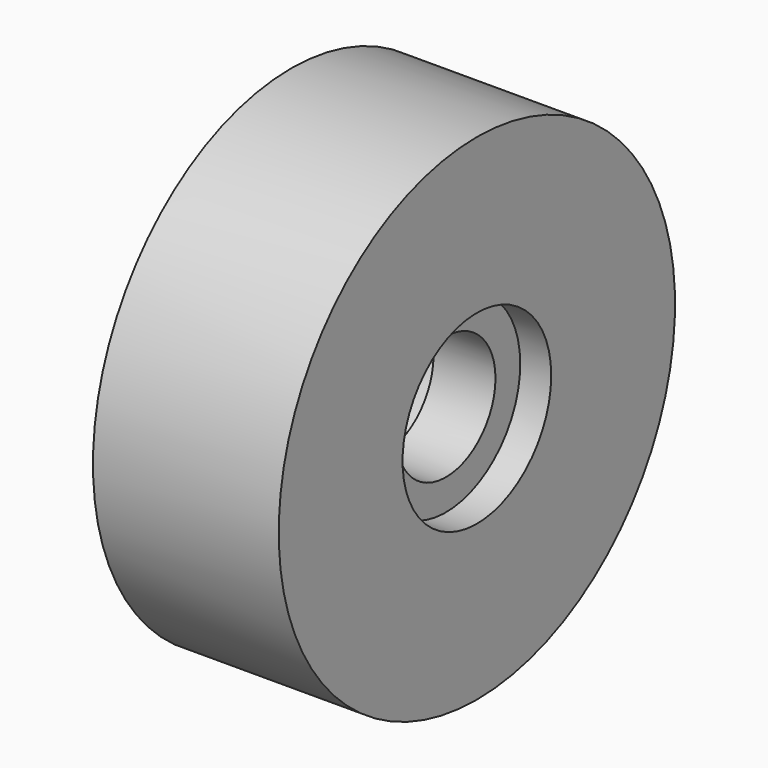
from build123d import *

# Parameters (mm, degrees)
F2_R     = 10
F3_DEPTH = 25
F2_R_2   = 15
F4_DEPTH = 5


with BuildPart() as f1:
    # F0 (on Front) → F1 (revolve)
    with BuildSketch(Plane.XZ):
        Polygon((7.5, 0), (-7.5, 0), (-7.5, -30), (-22.5, -30), (-22.5, -40), (7.5, -40), align=None)
    revolve(axis=Axis((0, 0, 0), (-1, 0, 0)))

    # F2 (on face) → F3 (cut)
    with BuildSketch(Plane.YZ.offset(7.5)):
        Circle(F2_R)
    extrude(amount=-F3_DEPTH, mode=Mode.SUBTRACT)

    # F2 (on face) → F4 (cut)
    with BuildSketch(Plane.YZ.offset(7.5)):
        Circle(F2_R_2)
        Circle(F2_R, mode=Mode.SUBTRACT)
    extrude(amount=-F4_DEPTH, mode=Mode.SUBTRACT)


solid = f1.part
